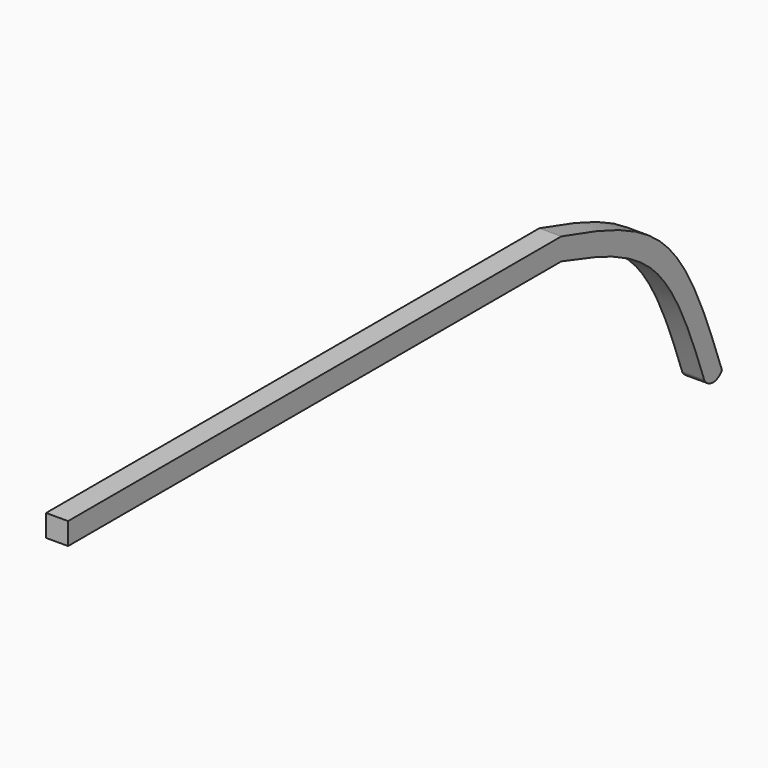
from build123d import *

# Parameters (mm, degrees)
F1_DEPTH = 3.175


with BuildPart() as f1:
    # F0 (on Right) → F1 (new body)
    with BuildSketch(Plane.YZ):
        with BuildLine():
            Line((29.907823873, 9.9541670571), (-58.992176127, 9.9541670571))
            Line((-58.992176127, 9.9541670571), (-58.992176127, 6.7791670571))
            Line((-58.992176127, 6.7791670571), (29.907823873, 6.7791670571))
            add(Edge.make_bspline(
                [(29.907823873, 6.7791670571), (35.7977353117, 4.9760463915), (48.5745529432, 1.426251935), (53.3927426069, -12.479387097), (55.6850089814, -18.7675365827)],
                knots=[0, 0, 0, 0, 0.4873155929, 1, 1, 1, 1], degree=3))
            ThreePointArc((55.6850089814, -18.7675365827), (57.2725089814, -19.7076834752), (58.8600089814, -18.7675365827))
            add(Edge.make_bspline(
                [(29.907823873, 9.9541670571), (36.910188306, 7.9497769334), (50.6395194075, 3.9483959542), (55.8563790797, -10.4766089442), (58.8600089814, -18.7675365827)],
                knots=[0, 0, 0, 0, 0.4826967405, 1, 1, 1, 1], degree=3))
        make_face()
    extrude(amount=F1_DEPTH)


solid = f1.part
